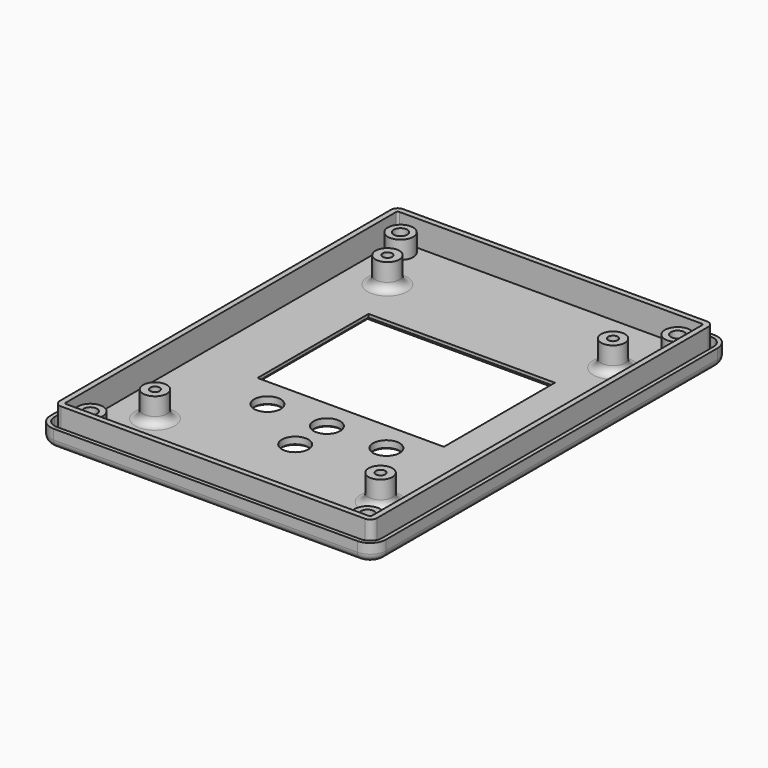
from build123d import *

# Parameters (mm, degrees)
BOX001_W          = 47
BOX001_H          = 35
BOX001_DEPTH      = 10
CYLINDER005_R     = 3.35
CYLINDER005_DEPTH = 10
CYLINDER006_R     = 3.35
CYLINDER006_DEPTH = 10
CYLINDER004_R     = 3.35
CYLINDER004_DEPTH = 10
CYLINDER003_R     = 3.35
CYLINDER003_DEPTH = 10
CYLINDER013_R     = 1.7
CYLINDER013_DEPTH = 11.5
CYLINDER014_R     = 1.7
CYLINDER014_DEPTH = 11.5
CYLINDER008_R     = 1.7
CYLINDER008_DEPTH = 11.5
CYLINDER012_R     = 1.7
CYLINDER012_DEPTH = 11.5
CYLINDER007_R     = 3.2
CYLINDER007_DEPTH = 4.5
CYLINDER009_R     = 3.2
CYLINDER009_DEPTH = 4.5
CYLINDER010_R     = 3.2
CYLINDER010_DEPTH = 4.5
CYLINDER011_R     = 3.2
CYLINDER011_DEPTH = 4.5
CYLINDER017_R     = 1.2
CYLINDER017_DEPTH = 6.5
CYLINDER018_R     = 3
CYLINDER018_DEPTH = 6.5
CYLINDER019_R     = 1.2
CYLINDER019_DEPTH = 6.5
CYLINDER020_R     = 3
CYLINDER020_DEPTH = 6.5
CYLINDER021_R     = 1.2
CYLINDER021_DEPTH = 6.5
CYLINDER022_R     = 3
CYLINDER022_DEPTH = 6.5
CYLINDER001_R     = 1.2
CYLINDER001_DEPTH = 6.5
CYLINDER_R        = 3
CYLINDER_DEPTH    = 6.5
BOX005_W          = 82.62
BOX005_H          = 110.52
BOX005_DEPTH      = 4
FILLET003_R       = 3
BOX004_W          = 84.62
BOX004_H          = 112.52
BOX004_DEPTH      = 4.5
FILLET002_R       = 4
BOX003_W          = 77.2
BOX003_H          = 105
BOX003_DEPTH      = 10
FILLET001_R       = 0.5
BOX002_W          = 80
BOX002_H          = 107.8
BOX002_DEPTH      = 6.5
FILLET_R          = 1.7
CHAMFER_SIZE      = 1.55
FILLET004_R       = 2
CHAMFER001_SIZE   = 1.2
CHAMFER002_SIZE   = 0.3


with BuildPart() as tft:
    # Box001 → Box001 (new body)
    with BuildSketch(Plane(origin=(-23.5, -10.5, -4), x_dir=(1, 0, 0), z_dir=(0, 0, 1))):
        with Locations((23.5, 17.5)):
            Rectangle(BOX001_W, BOX001_H)
    extrude(amount=BOX001_DEPTH)


with BuildPart() as button003:
    # Cylinder005 → Cylinder005 (new body)
    with BuildSketch(Plane(origin=(15, -13, -4), x_dir=(1, 0, 0), z_dir=(0, 0, 1))):
        Circle(CYLINDER005_R)
    extrude(amount=CYLINDER005_DEPTH)


with BuildPart() as button004:
    # Cylinder006 → Cylinder006 (new body)
    with BuildSketch(Plane(origin=(0, -23, -4), x_dir=(1, 0, 0), z_dir=(0, 0, 1))):
        Circle(CYLINDER006_R)
    extrude(amount=CYLINDER006_DEPTH)


with BuildPart() as button002:
    # Cylinder004 → Cylinder004 (new body)
    with BuildSketch(Plane(origin=(-15, -13, -4), x_dir=(1, 0, 0), z_dir=(0, 0, 1))):
        Circle(CYLINDER004_R)
    extrude(amount=CYLINDER004_DEPTH)


with BuildPart() as buttons:
    # Cylinder003 → Cylinder003 (new body)
    with BuildSketch(Plane(origin=(0, -13, -4), x_dir=(1, 0, 0), z_dir=(0, 0, 1))):
        Circle(CYLINDER003_R)
    extrude(amount=CYLINDER003_DEPTH)

    # Fusion004: union button003, button004, button002
    add(button003.part)
    add(button004.part)
    add(button002.part)


with BuildPart() as buttons_1:
    # Fusion004 placement: moved
    add(buttons.part.moved(Location((0, -5, 0))))


with BuildPart() as cylinder013:
    # Cylinder013 → Cylinder013 (new body)
    with BuildSketch(Plane(origin=(-34.95, -48.9, -4), x_dir=(1, 0, 0), z_dir=(0, 0, 1))):
        Circle(CYLINDER013_R)
    extrude(amount=CYLINDER013_DEPTH)


with BuildPart() as cylinder014:
    # Cylinder014 → Cylinder014 (new body)
    with BuildSketch(Plane(origin=(34.95, -48.9, -4), x_dir=(1, 0, 0), z_dir=(0, 0, 1))):
        Circle(CYLINDER014_R)
    extrude(amount=CYLINDER014_DEPTH)


with BuildPart() as cylinder008:
    # Cylinder008 → Cylinder008 (new body)
    with BuildSketch(Plane(origin=(34.95, 48.9, -4), x_dir=(1, 0, 0), z_dir=(0, 0, 1))):
        Circle(CYLINDER008_R)
    extrude(amount=CYLINDER008_DEPTH)


with BuildPart() as fusion005:
    # Cylinder012 → Cylinder012 (new body)
    with BuildSketch(Plane(origin=(-34.95, 48.9, -4), x_dir=(1, 0, 0), z_dir=(0, 0, 1))):
        Circle(CYLINDER012_R)
    extrude(amount=CYLINDER012_DEPTH)

    # Fusion: union Cylinder013, Cylinder014, Cylinder008
    add(cylinder013.part)
    add(cylinder014.part)
    add(cylinder008.part)

    # Fusion005: union -TFT, -Buttons
    add(tft.part)
    add(buttons_1.part)


with BuildPart() as cylinder007:
    # Cylinder007 → Cylinder007 (new body)
    with BuildSketch(Plane(origin=(34.95, 48.9, 0), x_dir=(1, 0, 0), z_dir=(0, 0, 1))):
        Circle(CYLINDER007_R)
    extrude(amount=CYLINDER007_DEPTH)


with BuildPart() as cylinder009:
    # Cylinder009 → Cylinder009 (new body)
    with BuildSketch(Plane(origin=(-34.95, 48.9, 0), x_dir=(1, 0, 0), z_dir=(0, 0, 1))):
        Circle(CYLINDER009_R)
    extrude(amount=CYLINDER009_DEPTH)


with BuildPart() as cylinder010:
    # Cylinder010 → Cylinder010 (new body)
    with BuildSketch(Plane(origin=(-34.95, -48.9, 0), x_dir=(1, 0, 0), z_dir=(0, 0, 1))):
        Circle(CYLINDER010_R)
    extrude(amount=CYLINDER010_DEPTH)


with BuildPart() as obj1_front:
    # Cylinder011 → Cylinder011 (new body)
    with BuildSketch(Plane(origin=(34.95, -48.9, 0), x_dir=(1, 0, 0), z_dir=(0, 0, 1))):
        Circle(CYLINDER011_R)
    extrude(amount=CYLINDER011_DEPTH)

    # Fusion002: union Cylinder007, Cylinder009, Cylinder010
    add(cylinder007.part)
    add(cylinder009.part)
    add(cylinder010.part)


with BuildPart() as obj2:
    # Cylinder017 → Cylinder017 (new body)
    with BuildSketch(Plane.XY):
        Circle(CYLINDER017_R)
    extrude(amount=CYLINDER017_DEPTH)


with BuildPart() as cut008:
    # Cylinder018 → Cylinder018 (new body)
    with BuildSketch(Plane.XY):
        Circle(CYLINDER018_R)
    extrude(amount=CYLINDER018_DEPTH)

    # Cut008: cut obj2
    add(obj2.part, mode=Mode.SUBTRACT)


with BuildPart() as cut008_1:
    # Cut008 placement: moved
    add(cut008.part.moved(Location((-28.45, 36.65, 0))))


with BuildPart() as obj3:
    # Cylinder019 → Cylinder019 (new body)
    with BuildSketch(Plane.XY):
        Circle(CYLINDER019_R)
    extrude(amount=CYLINDER019_DEPTH)


with BuildPart() as cut009:
    # Cylinder020 → Cylinder020 (new body)
    with BuildSketch(Plane.XY):
        Circle(CYLINDER020_R)
    extrude(amount=CYLINDER020_DEPTH)

    # Cut009: cut obj3
    add(obj3.part, mode=Mode.SUBTRACT)


with BuildPart() as cut009_1:
    # Cut009 placement: moved
    add(cut009.part.moved(Location((-28.45, -36.65, 0))))


with BuildPart() as obj4:
    # Cylinder021 → Cylinder021 (new body)
    with BuildSketch(Plane.XY):
        Circle(CYLINDER021_R)
    extrude(amount=CYLINDER021_DEPTH)


with BuildPart() as cut010:
    # Cylinder022 → Cylinder022 (new body)
    with BuildSketch(Plane.XY):
        Circle(CYLINDER022_R)
    extrude(amount=CYLINDER022_DEPTH)

    # Cut010: cut obj4
    add(obj4.part, mode=Mode.SUBTRACT)


with BuildPart() as cut010_1:
    # Cut010 placement: moved
    add(cut010.part.moved(Location((28.45, -36.65, 0))))


with BuildPart() as obj5:
    # Cylinder001 → Cylinder001 (new body)
    with BuildSketch(Plane.XY):
        Circle(CYLINDER001_R)
    extrude(amount=CYLINDER001_DEPTH)


with BuildPart() as obj1:
    # Cylinder → Cylinder (new body)
    with BuildSketch(Plane.XY):
        Circle(CYLINDER_R)
    extrude(amount=CYLINDER_DEPTH)

    # Cut007: cut obj5
    add(obj5.part, mode=Mode.SUBTRACT)


with BuildPart() as obj1_1:
    # Cut007 placement: moved
    add(obj1.part.moved(Location((28.45, 36.65, 0))))

    # Fusion001: union Cut008, Cut009, Cut010
    add(cut008_1.part)
    add(cut009_1.part)
    add(cut010_1.part)


with BuildPart() as fillet003:
    # Box005 → Box005 (new body)
    with BuildSketch(Plane(origin=(-41.31, -55.26, 0), x_dir=(1, 0, 0), z_dir=(0, 0, 1))):
        with Locations((41.31, 55.26)):
            Rectangle(BOX005_W, BOX005_H)
    extrude(amount=BOX005_DEPTH)

    # Fillet003
    fillet003_edges = [fillet003.edges().sort_by_distance(p)[0] for p in [
        (-41.31, -55.26, 2),
        (-41.31, 55.26, 2),
        (41.31, -55.26, 2),
        (41.31, 55.26, 2),
    ]]
    fillet(fillet003_edges, radius=FILLET003_R)


with BuildPart() as obj6:
    # Box004 → Box004 (new body)
    with BuildSketch(Plane(origin=(-42.31, -56.26, -2), x_dir=(1, 0, 0), z_dir=(0, 0, 1))):
        with Locations((42.31, 56.26)):
            Rectangle(BOX004_W, BOX004_H)
    extrude(amount=BOX004_DEPTH)

    # Fillet002
    fillet002_edges = [obj6.edges().sort_by_distance(p)[0] for p in [
        (-42.31, -56.26, 0.25),
        (-42.31, 56.26, 0.25),
        (42.31, -56.26, 0.25),
        (42.31, 56.26, 0.25),
    ]]
    fillet(fillet002_edges, radius=FILLET002_R)

    # Cut: cut Fillet003
    add(fillet003.part, mode=Mode.SUBTRACT)


with BuildPart() as fillet001:
    # Box003 → Box003 (new body)
    with BuildSketch(Plane(origin=(-38.6, -52.5, 0), x_dir=(1, 0, 0), z_dir=(0, 0, 1))):
        with Locations((38.6, 52.5)):
            Rectangle(BOX003_W, BOX003_H)
    extrude(amount=BOX003_DEPTH)

    # Fillet001
    fillet001_edges = [fillet001.edges().sort_by_distance(p)[0] for p in [
        (-38.6, -52.5, 5),
        (-38.6, 52.5, 5),
        (38.6, -52.5, 5),
        (38.6, 52.5, 5),
    ]]
    fillet(fillet001_edges, radius=FILLET001_R)


with BuildPart() as chamfer_buttons:
    # Box002 → Box002 (new body)
    with BuildSketch(Plane(origin=(-40, -53.9, 0), x_dir=(1, 0, 0), z_dir=(0, 0, 1))):
        with Locations((40, 53.9)):
            Rectangle(BOX002_W, BOX002_H)
    extrude(amount=BOX002_DEPTH)

    # Fillet
    fillet_edges = [chamfer_buttons.edges().sort_by_distance(p)[0] for p in [
        (-40, -53.9, 3.25),
        (-40, 53.9, 3.25),
        (40, -53.9, 3.25),
        (40, 53.9, 3.25),
    ]]
    fillet(fillet_edges, radius=FILLET_R)

    # Cut003: cut Fillet001
    add(fillet001.part, mode=Mode.SUBTRACT)

    # Fusion006: union +obj1_front, +obj1_obj6
    add(obj1_front.part)
    add(obj1_1.part)
    add(obj6.part)

    # Cut006: cut Fusion005
    add(fusion005.part, mode=Mode.SUBTRACT)

    # Chamfer
    chamfer_edges = [chamfer_buttons.edges().sort_by_distance(p)[0] for p in [
        (-36.65, -48.9, -2),
        (-36.65, 48.9, -2),
        (33.25, 48.9, -2),
        (33.25, -48.9, -2),
    ]]
    chamfer(chamfer_edges, length=CHAMFER_SIZE)

    # Fillet004
    fillet004_edges = [chamfer_buttons.edges().sort_by_distance(p)[0] for p in [
        (0, 56.26, -2),
        (-31.45, 36.65, 0),
        (25.45, 36.65, 0),
        (25.45, -36.65, 0),
        (-31.45, -36.65, 0),
    ]]
    fillet(fillet004_edges, radius=FILLET004_R)

    # Chamfer001
    chamfer001_edges = [chamfer_buttons.edges().sort_by_distance(p)[0] for p in [
        (0, -10.5, -2),
        (23.5, 7, -2),
        (0, 24.5, -2),
        (-23.5, 7, -2),
    ]]
    chamfer(chamfer001_edges, length=CHAMFER001_SIZE)

    # Chamfer002
    chamfer002_edges = [chamfer_buttons.edges().sort_by_distance(p)[0] for p in [
        (11.65, -18, -2),
        (-3.35, -18, -2),
        (-18.35, -18, -2),
        (-3.35, -28, -2),
    ]]
    chamfer(chamfer002_edges, length=CHAMFER002_SIZE)


solid = chamfer_buttons.part
